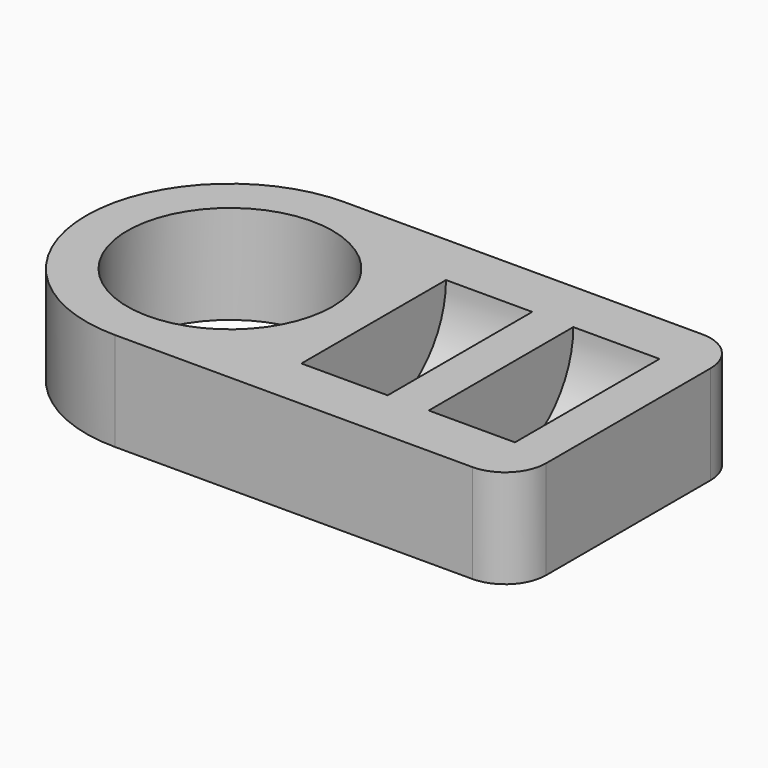
from build123d import *

# Parameters (mm, degrees)
F0_R     = 12.5
F1_DEPTH = 12
F2_W     = 10.5
F2_H     = 11


with BuildPart() as f1:
    # F0 (on Top) → F1 (new body)
    with BuildSketch(Plane.XY):
        with BuildLine():
            ThreePointArc((0, 17.5), (5.125631, 5.125631), (17.5, 0))
            Line((17.5, 0), (61, 0))
            ThreePointArc((61, 0), (64.535534, 1.464466), (66, 5))
            Line((66, 5), (66, 30))
            ThreePointArc((66, 30), (64.535534, 33.535534), (61, 35))
            Line((61, 35), (17.5, 35))
            ThreePointArc((17.5, 35), (5.125631, 29.874369), (0, 17.5))
        make_face()
        with Locations((17.5, 17.5)):
            Circle(F0_R, mode=Mode.SUBTRACT)
    extrude(amount=F1_DEPTH)

    # F2 (on face) → F3 (revolve, cut)
    with BuildSketch(Plane.XY.offset(12)):
        with Locations((40.25, 12)):
            Rectangle(F2_W, F2_H)
        with Locations((55.75, 12)):
            Rectangle(F2_W, F2_H)
    revolve(axis=Axis((40.25, 17.5, 12), (1, 0, 0)), mode=Mode.SUBTRACT)


solid = f1.part
